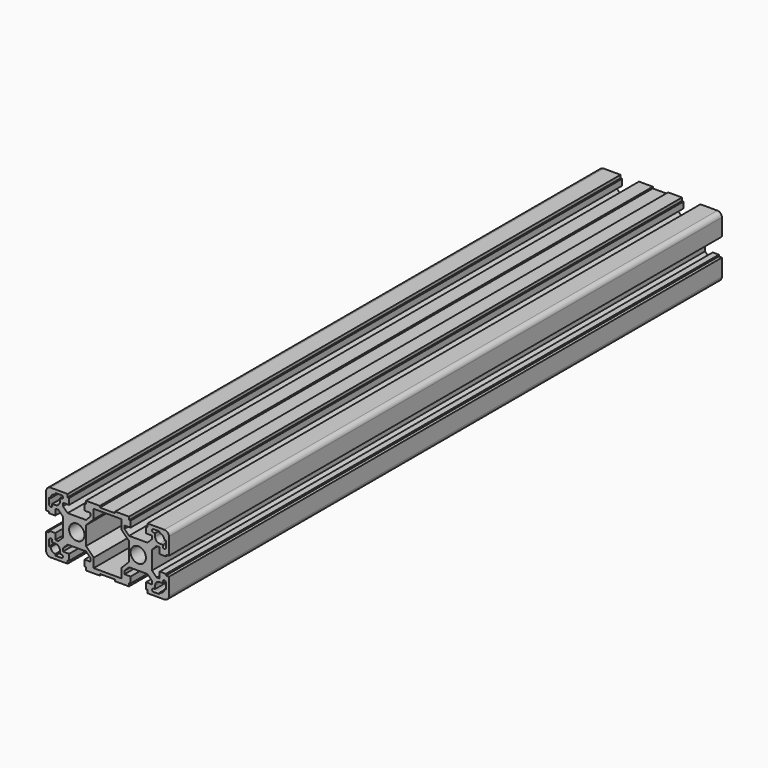
from build123d import *

# Parameters (mm, degrees)
F1_R     = 5
F2_DEPTH = 450


with BuildPart() as f2:
    # F1 (on Front) → F2 (new body)
    with BuildSketch(Plane.XZ):
        with BuildLine():
            Line((-38, 6), (-38, 5))
            Line((-38, 5), (-34, 5))
            Line((-34, 5), (-34, 9))
            Line((-34, 9), (-32, 9))
            Line((-32, 9), (-29, 6))
            Line((-29, 6), (-29, -6))
            Line((-29, -6), (-32, -9))
            Line((-32, -9), (-34, -9))
            Line((-34, -9), (-34, -5))
            Line((-34, -5), (-38, -5))
            Line((-38, -5), (-38, -6))
            Line((-38, -6), (-40, -6))
            Line((-40, -6), (-40, -17))
            ThreePointArc((-40, -17), (-39.1213203436, -19.1213203436), (-37, -20))
            Line((-37, -20), (-26, -20))
            Line((-26, -20), (-26, -18))
            Line((-26, -18), (-25, -18))
            Line((-25, -18), (-25, -14))
            Line((-25, -14), (-29, -14))
            Line((-29, -14), (-29, -12))
            Line((-29, -12), (-26, -9))
            Line((-26, -9), (-14, -9))
            Line((-14, -9), (-11, -12))
            Line((-11, -12), (-11, -14))
            Line((-11, -14), (-15, -14))
            Line((-15, -14), (-15, -18))
            Line((-15, -18), (-14, -18))
            Line((-14, -18), (-14, -20))
            Line((-14, -20), (-5, -20))
            Line((-5, -20), (-5, -19))
            Line((-5, -19), (5, -19))
            Line((5, -19), (5, -20))
            Line((5, -20), (14, -20))
            Line((14, -20), (14, -18))
            Line((14, -18), (15, -18))
            Line((15, -18), (15, -14))
            Line((15, -14), (11, -14))
            Line((11, -14), (11, -12))
            Line((11, -12), (14, -9))
            Line((14, -9), (26, -9))
            Line((26, -9), (29, -12))
            Line((29, -12), (29, -14))
            Line((29, -14), (25, -14))
            Line((25, -14), (25, -18))
            Line((25, -18), (26, -18))
            Line((26, -18), (26, -20))
            Line((26, -20), (37, -20))
            ThreePointArc((37, -20), (39.1213203436, -19.1213203436), (40, -17))
            Line((40, -17), (40, -6))
            Line((40, -6), (38, -6))
            Line((38, -6), (38, -5))
            Line((38, -5), (34, -5))
            Line((34, -5), (34, -9))
            Line((34, -9), (32, -9))
            Line((32, -9), (29, -6))
            Line((29, -6), (29, 6))
            Line((29, 6), (32, 9))
            Line((32, 9), (34, 9))
            Line((34, 9), (34, 5))
            Line((34, 5), (38, 5))
            Line((38, 5), (38, 6))
            Line((38, 6), (40, 6))
            Line((40, 6), (40, 17))
            ThreePointArc((40, 17), (39.1213203436, 19.1213203436), (37, 20))
            Line((37, 20), (26, 20))
            Line((26, 20), (26, 18))
            Line((26, 18), (25, 18))
            Line((25, 18), (25, 14))
            Line((25, 14), (29, 14))
            Line((29, 14), (29, 12))
            Line((29, 12), (26, 9))
            Line((26, 9), (14, 9))
            Line((14, 9), (11, 12))
            Line((11, 12), (11, 14))
            Line((11, 14), (15, 14))
            Line((15, 14), (15, 18))
            Line((15, 18), (14, 18))
            Line((14, 18), (14, 20))
            Line((14, 20), (5, 20))
            Line((5, 20), (5, 19))
            Line((5, 19), (-5, 19))
            Line((-5, 19), (-5, 20))
            Line((-5, 20), (-14, 20))
            Line((-14, 20), (-14, 18))
            Line((-14, 18), (-15, 18))
            Line((-15, 18), (-15, 14))
            Line((-15, 14), (-11, 14))
            Line((-11, 14), (-11, 12))
            Line((-11, 12), (-14, 9))
            Line((-14, 9), (-26, 9))
            Line((-26, 9), (-29, 12))
            Line((-29, 12), (-29, 14))
            Line((-29, 14), (-25, 14))
            Line((-25, 14), (-25, 18))
            Line((-25, 18), (-26, 18))
            Line((-26, 18), (-26, 20))
            Line((-26, 20), (-37, 20))
            ThreePointArc((-37, 20), (-39.1213203436, 19.1213203436), (-40, 17))
            Line((-40, 17), (-40, 6))
            Line((-40, 6), (-38, 6))
        make_face()
        with BuildLine():
            ThreePointArc((-30, -16), (-29, -17), (-30, -18))
            Line((-30, -18), (-34, -18))
            Line((-34, -18), (-34, -17))
            ThreePointArc((-34, -17), (-36.1213203436, -16.1213203436), (-37, -14))
            Line((-37, -14), (-38, -14))
            Line((-38, -14), (-38, -10))
            ThreePointArc((-38, -10), (-37, -9), (-36, -10))
            Line((-36, -10), (-36, -11))
            Line((-36, -11), (-34, -11))
            ThreePointArc((-34, -11), (-31.8786796564, -11.8786796564), (-31, -14))
            Line((-31, -14), (-31, -16))
            Line((-31, -16), (-30, -16))
        make_face(mode=Mode.SUBTRACT)
        with BuildLine():
            ThreePointArc((36, -10), (37, -9), (38, -10))
            Line((38, -10), (38, -14))
            Line((38, -14), (37, -14))
            ThreePointArc((37, -14), (36.1213203436, -16.1213203436), (34, -17))
            Line((34, -17), (34, -18))
            Line((34, -18), (30, -18))
            ThreePointArc((30, -18), (29, -17), (30, -16))
            Line((30, -16), (31, -16))
            Line((31, -16), (31, -14))
            ThreePointArc((31, -14), (31.8786796564, -11.8786796564), (34, -11))
            Line((34, -11), (36, -11))
            Line((36, -11), (36, -10))
        make_face(mode=Mode.SUBTRACT)
        with Locations((-20, 0)):
            Circle(F1_R, mode=Mode.SUBTRACT)
        with BuildLine():
            ThreePointArc((-36, 10), (-37, 9), (-38, 10))
            Line((-38, 10), (-38, 14))
            Line((-38, 14), (-37, 14))
            ThreePointArc((-37, 14), (-36.1213203436, 16.1213203436), (-34, 17))
            Line((-34, 17), (-34, 18))
            Line((-34, 18), (-30, 18))
            ThreePointArc((-30, 18), (-29, 17), (-30, 16))
            Line((-30, 16), (-31, 16))
            Line((-31, 16), (-31, 14))
            ThreePointArc((-31, 14), (-31.8786796564, 11.8786796564), (-34, 11))
            Line((-34, 11), (-36, 11))
            Line((-36, 11), (-36, 10))
        make_face(mode=Mode.SUBTRACT)
        Polygon((9, -17), (-9, -17), (-9, -11), (-14, -6), (-14, 6), (-9, 11), (-9, 17), (9, 17), (9, 11), (14, 6), (14, -6), (9, -11), align=None, mode=Mode.SUBTRACT)
        with Locations((20, 0)):
            Circle(F1_R, mode=Mode.SUBTRACT)
        with BuildLine():
            ThreePointArc((30, 16), (29, 17), (30, 18))
            Line((30, 18), (34, 18))
            Line((34, 18), (34, 17))
            ThreePointArc((34, 17), (36.1213203436, 16.1213203436), (37, 14))
            Line((37, 14), (38, 14))
            Line((38, 14), (38, 10))
            ThreePointArc((38, 10), (37, 9), (36, 10))
            Line((36, 10), (36, 11))
            Line((36, 11), (34, 11))
            ThreePointArc((34, 11), (31.8786796564, 11.8786796564), (31, 14))
            Line((31, 14), (31, 16))
            Line((31, 16), (30, 16))
        make_face(mode=Mode.SUBTRACT)
    extrude(amount=F2_DEPTH)


solid = f2.part
